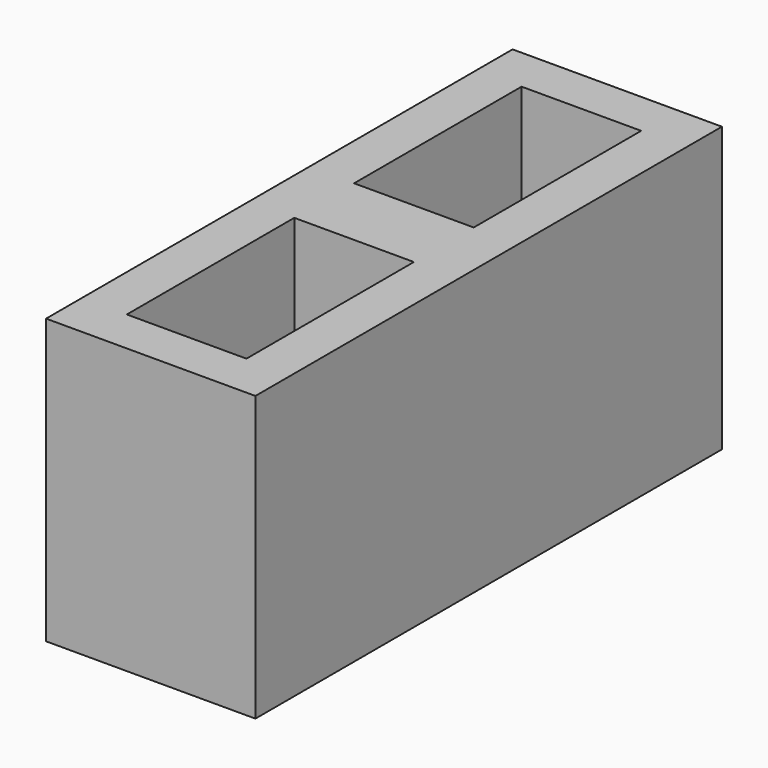
from build123d import *

# Parameters (mm, degrees)
BOX116_W               = 140
BOX116_H               = 80
BOX116_DEPTH           = 190
BOX118_W               = 140
BOX118_H               = 80
BOX118_DEPTH           = 190
BOX117_W               = 390
BOX117_H               = 140
BOX117_DEPTH           = 190
CUT017_PLACEMENT_ANGLE = 90


with BuildPart() as cube088:
    # Box116 → Box116 (new body)
    with BuildSketch(Plane(origin=(220, 30, 0), x_dir=(1, 0, 0), z_dir=(0, 0, 1))):
        with Locations((70, 40)):
            Rectangle(BOX116_W, BOX116_H)
    extrude(amount=BOX116_DEPTH)


with BuildPart() as fusion022:
    # Box118 → Box118 (new body)
    with BuildSketch(Plane(origin=(30, 30, 0), x_dir=(1, 0, 0), z_dir=(0, 0, 1))):
        with Locations((70, 40)):
            Rectangle(BOX118_W, BOX118_H)
    extrude(amount=BOX118_DEPTH)

    # Fusion022: union Cube088
    add(cube088.part)


with BuildPart() as cut017:
    # Box117 → Box117 (new body)
    with BuildSketch(Plane.XY):
        with Locations((195, 70)):
            Rectangle(BOX117_W, BOX117_H)
    extrude(amount=BOX117_DEPTH)

    # Cut017: cut Fusion022
    add(fusion022.part, mode=Mode.SUBTRACT)


with BuildPart() as cut017_1:
    # Cut017 placement: moved
    add(cut017.part.moved(Location((1085, 195, -190))).rotate(Axis((1085, 195, -190), (0, 0, 1)), CUT017_PLACEMENT_ANGLE))


solid = cut017_1.part
